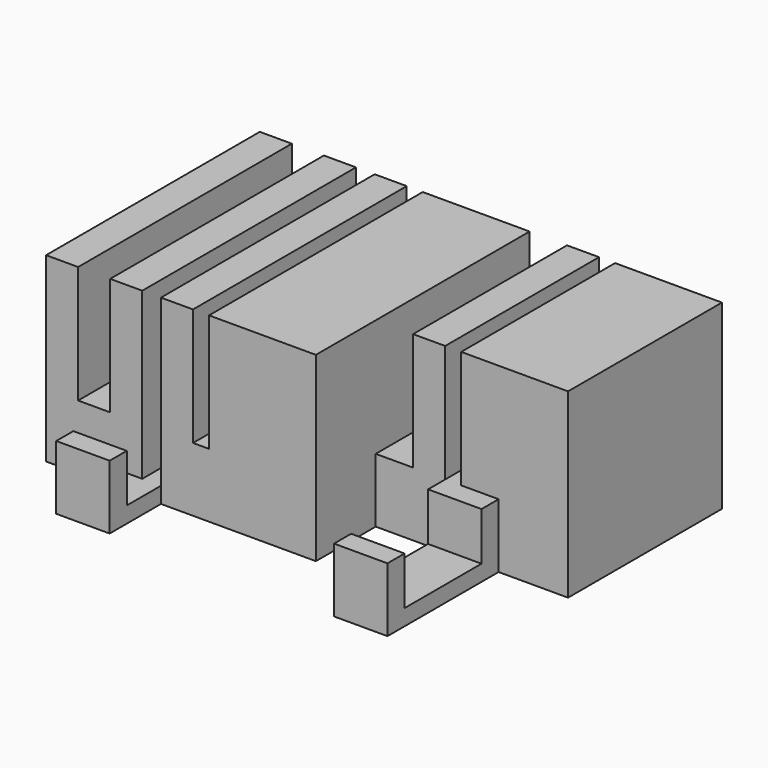
from build123d import *

# Parameters (mm, degrees)
PAD_DEPTH    = 25
PAD001_DEPTH = 25
PAD002_DEPTH = 18
SKETCH_W     = 5
SKETCH_H     = 1.5
PAD003_DEPTH = 13
SKETCH004_W  = 5
SKETCH004_H  = 2
PAD004_DEPTH = 4.5
SKETCH005_W  = 6
SKETCH005_H  = 18
PAD005_DEPTH = 23
SKETCH006_W  = 5
SKETCH006_H  = 1.5
PAD006_DEPTH = 13
SKETCH007_W  = 5
SKETCH007_H  = 2
PAD007_DEPTH = 4.5


with BuildPart() as obj1:
    # Sketch001 → Pad (new body)
    with BuildSketch(Plane.XZ):
        Polygon((-4.5, 17), (-1.5, 17), (-1.5, 6), (1.5, 6), (1.5, 17), (4.5, 17), (4.5, 0), (-4.5, 0), align=None)
    extrude(amount=PAD_DEPTH)


with BuildPart() as obj2:
    # Sketch002 → Pad001 (new body)
    with BuildSketch(Plane(origin=(10, 0, 0), x_dir=(1, 0, 0), z_dir=(0, -1, 0))):
        Polygon((-3.75, 17), (-0.75, 17), (-0.75, 6), (0.75, 6), (0.75, 17), (10.75, 17), (10.75, 0), (-3.75, 0), align=None)
    extrude(amount=PAD001_DEPTH)


with BuildPart() as obj3:
    # Sketch003 → Pad002 (new body)
    with BuildSketch(Plane(origin=(28, 0, 0), x_dir=(1, 0, 0), z_dir=(0, -1, 0))):
        Polygon((-3.75, 17), (-0.75, 17), (-0.75, 6), (0.75, 6), (0.75, 17), (10.75, 17), (10.75, 0), (-3.75, 0), align=None)
    extrude(amount=PAD002_DEPTH)

    # Sketch → Pad003 (new body)
    with BuildSketch(Plane(origin=(28, -18, 0), x_dir=(1, 0, 0), z_dir=(0, -1, 0))):
        with Locations((1.75, 0.75)):
            Rectangle(SKETCH_W, SKETCH_H)
    extrude(amount=PAD003_DEPTH)

    # Sketch004 → Pad004 (new body)
    with BuildSketch(Plane(origin=(28, 0, 1.5), x_dir=(-1, 0, 0), z_dir=(0, 0, 1))):
        with Locations((-1.75, 30)):
            Rectangle(SKETCH004_W, SKETCH004_H)
        with Locations((-1.75, 19)):
            Rectangle(SKETCH004_W, SKETCH004_H)
    extrude(amount=PAD004_DEPTH)

    # Sketch005 → Pad005 (new body)
    with BuildSketch(Plane(origin=(24.25, 0, 0), x_dir=(0, 0, -1), z_dir=(-1, 0, 0))):
        with Locations((-3, 9)):
            Rectangle(SKETCH005_W, SKETCH005_H)
    extrude(amount=PAD005_DEPTH)

    # Sketch006 → Pad006 (new body)
    with BuildSketch(Plane(origin=(28, -18, 0), x_dir=(1, 0, 0), z_dir=(0, -1, 0))):
        with Locations((-24.25, 0.75)):
            Rectangle(SKETCH006_W, SKETCH006_H)
    extrude(amount=PAD006_DEPTH)

    # Sketch007 → Pad007 (new body)
    with BuildSketch(Plane(origin=(28, 0, 1.5), x_dir=(-1, 0, 0), z_dir=(0, 0, 1))):
        with Locations((24.25, 30)):
            Rectangle(SKETCH007_W, SKETCH007_H)
        with Locations((24.25, 19)):
            Rectangle(SKETCH007_W, SKETCH007_H)
    extrude(amount=PAD007_DEPTH)


solid = Compound([obj1.part, obj2.part, obj3.part])
